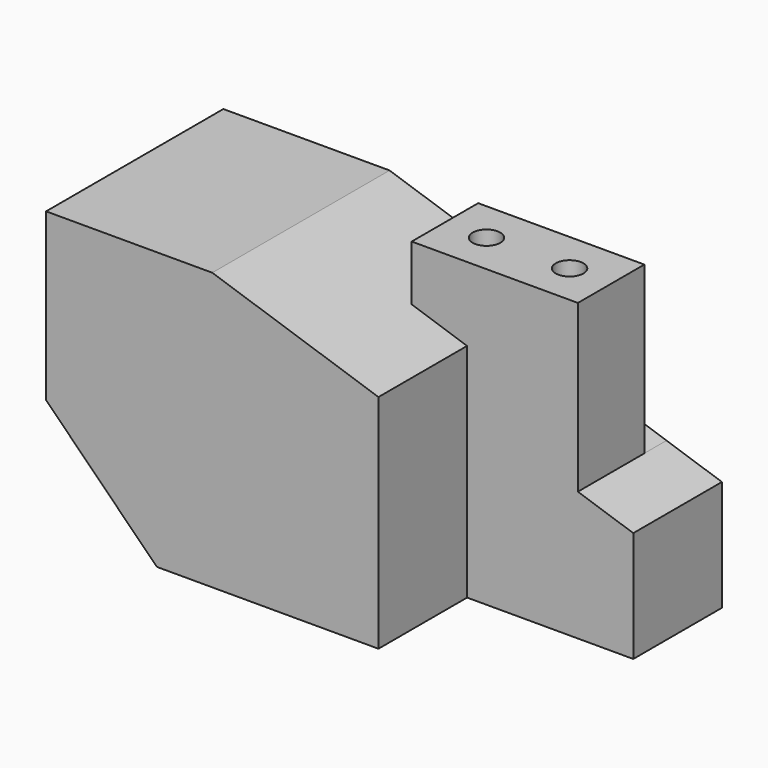
from build123d import *

# Parameters (mm, degrees)
F1_DEPTH = 25.4
F3_DEPTH = 19.05
F5_DEPTH = 6.35
F6_R     = 3.175
F7_DEPTH = 67.7343333333


with BuildPart() as f1:
    # F0 (on Front) → F1 (new body, symmetric)
    with BuildSketch(Plane.XZ):
        Polygon((38.1, 63.5), (0, 63.5), (0, 25.4), (25.4, 0), (76.2, 0), (76.2, 50.8), align=None)
    extrude(amount=F1_DEPTH, both=True)

    # F2 (on Front) → F3 (join)
    with BuildSketch(Plane.XZ):
        Polygon((63.5, 67.7333333333), (63.5, 55.0333333333), (76.2, 50.8), (76.2, 0), (114.3, 0), (114.3, 25.4), (101.6, 29.6333333333), (101.6, 67.7333333333), align=None)
    extrude(amount=-F3_DEPTH)

    # F4 (on face) → F5 (join)
    with BuildSketch(Plane(origin=(0, 19.05, 0), x_dir=(-1, 0, 0), z_dir=(0, 1, 0))):
        Polygon((-101.6, 29.6333333333), (-114.3, 25.4), (-114.3, 0), (-76.2, 0), (-76.2, 38.1), align=None)
    extrude(amount=F5_DEPTH)

    # F6 (on face) → F7 (cut, through all)
    with BuildSketch(Plane.XY.offset(67.7333333333)):
        with Locations((73.025, 9.525)):
            Circle(F6_R)
        with Locations((92.075, 9.525)):
            Circle(F6_R)
    extrude(amount=-F7_DEPTH, mode=Mode.SUBTRACT)


solid = f1.part
